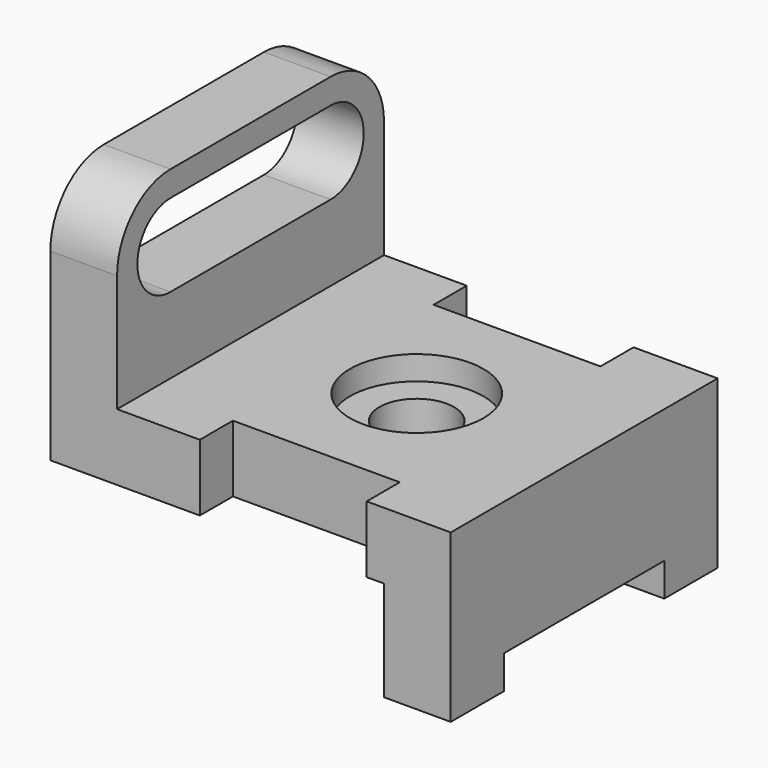
from build123d import *

# Parameters (mm, degrees)
F0_W      = 76.2
F0_H      = 63.5
F1_DEPTH  = 66.802
F2_W      = 63.5
F2_H      = 35.052
F2_H_2    = 19.05
F3_DEPTH  = 63.501
F4_R      = 12.7
F5_W      = 38.1
F5_H      = 6.35
F6_DEPTH  = 76.201
F8_DEPTH  = 12.701
F9_W      = 31.75
F9_H      = 7.874
F10_DEPTH = 31.751
F11_R     = 12.7
F12_DEPTH = 4.572
F13_R     = 7.112
F14_DEPTH = 27.179


with BuildPart() as f1:
    # F0 (on Top) → F1 (new body)
    with BuildSketch(Plane.XY):
        with Locations((38.1, 31.75)):
            Rectangle(F0_W, F0_H)
    extrude(amount=F1_DEPTH)

    # F2 (on face) → F3 (cut, through all)
    with BuildSketch(Plane.XZ):
        with Locations((44.45, 49.276)):
            Rectangle(F2_W, F2_H)
        with Locations((31.75, 9.525)):
            Rectangle(F2_W, F2_H_2)
    extrude(amount=-F3_DEPTH, mode=Mode.SUBTRACT)

    # F4
    f4_edges = [f1.edges().sort_by_distance(p)[0] for p in [
        (6.35, 0, 66.802),
        (6.35, 63.5, 66.802),
    ]]
    fillet(f4_edges, radius=F4_R)

    # F5 (on face) → F6 (cut, through all)
    with BuildSketch(Plane.YZ.offset(76.2)):
        with Locations((31.75, 3.175)):
            Rectangle(F5_W, F5_H)
    extrude(amount=-F6_DEPTH, mode=Mode.SUBTRACT)

    # F7 (on face) → F8 (cut, through all)
    with BuildSketch(Plane.YZ.offset(12.7)):
        with BuildLine():
            Line((50.799009, 61.976), (12.699009, 61.971204))
            ThreePointArc((12.699009, 61.971204), (4.830796, 54.102), (12.699009, 46.232796))
            Line((12.699009, 46.232796), (50.799009, 46.228))
            ThreePointArc((50.799009, 46.228), (58.674, 54.102), (50.799009, 61.976))
        make_face()
    extrude(amount=-F8_DEPTH, mode=Mode.SUBTRACT)

    # F9 (on face) → F10 (cut, through all)
    with BuildSketch(Plane.XY.offset(31.75)):
        with Locations((44.323, 59.563)):
            Rectangle(F9_W, F9_H)
        with Locations((44.323, 3.937)):
            Rectangle(F9_W, F9_H)
    extrude(amount=-F10_DEPTH, mode=Mode.SUBTRACT)

    # F11 (on face) → F12 (cut)
    with BuildSketch(Plane.XY.offset(31.75)):
        with Locations((44.323, 31.75)):
            Circle(F11_R)
    extrude(amount=-F12_DEPTH, mode=Mode.SUBTRACT)

    # F13 (on face) → F14 (cut, through all)
    with BuildSketch(Plane.XY.offset(27.178)):
        with Locations((44.323, 31.75)):
            Circle(F13_R)
    extrude(amount=-F14_DEPTH, mode=Mode.SUBTRACT)


solid = f1.part
